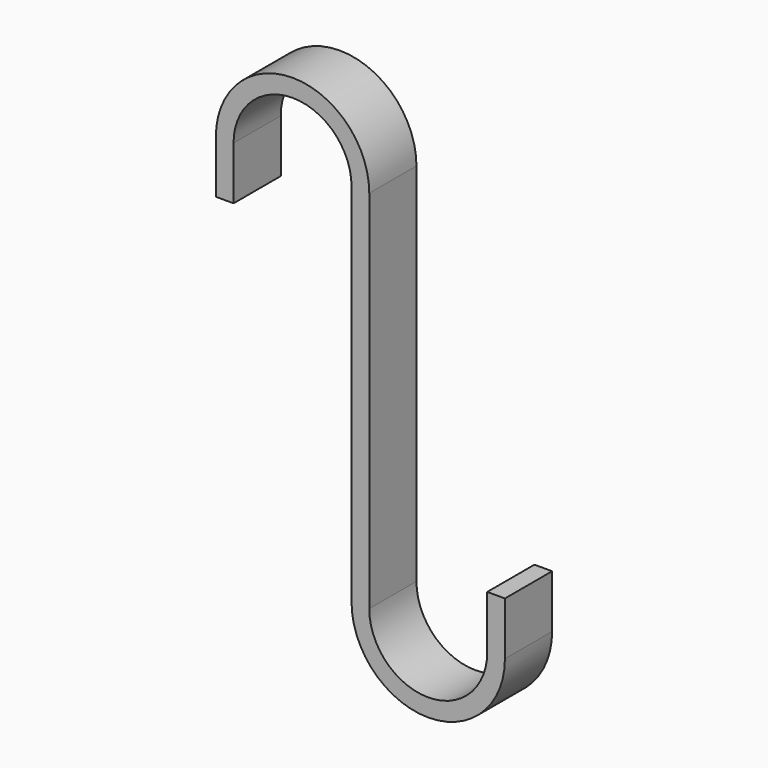
from build123d import *

# Parameters (mm, degrees)
PAD_DEPTH = 10


with BuildPart() as part:
    # Sketch → Pad (new body)
    with BuildSketch(Plane.XZ):
        with BuildLine():
            Line((-21.5, 31), (-21.5, 22))
            Line((-21.5, 22), (-24.5, 22))
            Line((-24.5, 22), (-24.5, 31))
            ThreePointArc((1.5, 31), (-11.5, 44), (-24.5, 31))
            Line((1.5, 31), (1.5, -31))
            ThreePointArc((1.5, -31), (11.5, -41), (21.5, -31))
            Line((21.5, -31), (21.5, -22))
            Line((21.5, -22), (24.5, -22))
            Line((24.5, -22), (24.5, -31))
            ThreePointArc((-1.5, -31), (11.5, -44), (24.5, -31))
            Line((-1.5, 31), (-1.5, -31))
            ThreePointArc((-1.5, 31), (-11.5, 41), (-21.5, 31))
        make_face()
    extrude(amount=PAD_DEPTH)


solid = part.part
